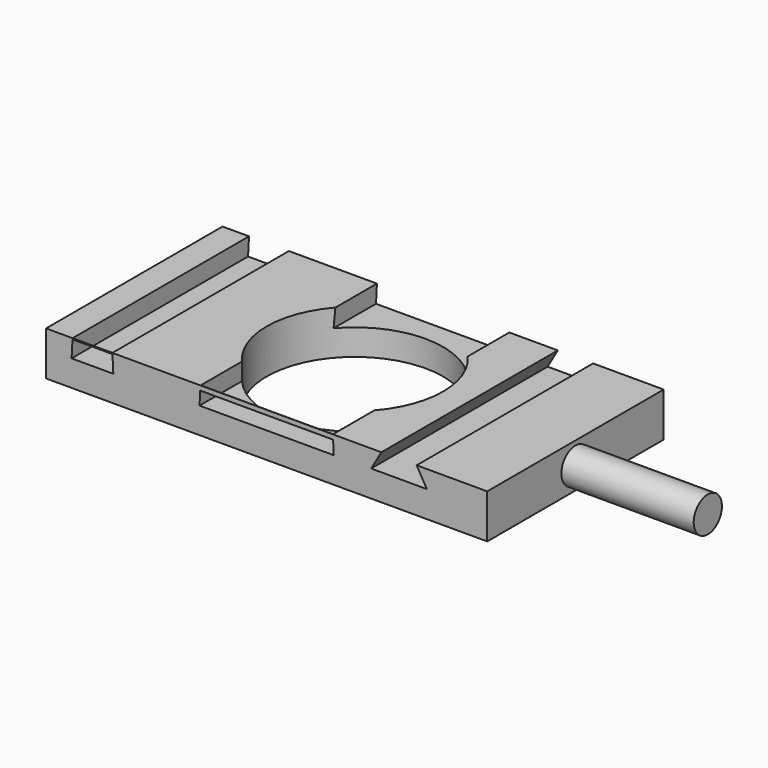
from build123d import *

# Parameters (mm, degrees)
F1_W     = 254
F1_H     = 127
F1_R     = 50.8
F2_DEPTH = 25.4
F5_DEPTH = 127.001
F3_W     = 22.938862443
F3_H     = 126.9670481086
F3_W_2   = 76.2
F3_H_2   = 126.8606091142
F7_DEPTH = 10.414
F7_TAPER = -3
F6_R     = 10.16
F8_DEPTH = 76.2


with BuildPart() as f2:
    # F1 (on face) → F2 (new body)
    with BuildSketch(Plane.XY):
        Rectangle(F1_W, F1_H)
        Circle(F1_R, mode=Mode.SUBTRACT)
    extrude(amount=-F2_DEPTH)

    # F4 (on face) → F5 (cut, through all)
    with BuildSketch(Plane.XZ.offset(63.5)):
        Polygon((86.36, 0), (66.04, 0), (60.174121265, -10.16), (92.225878735, -10.16), align=None)
    extrude(amount=-F5_DEPTH, mode=Mode.SUBTRACT)

    # F3 (on face) → F7 (cut)
    with BuildSketch(Plane.XY):
        with Locations((-100.2905687785, 0.0164759457)):
            Rectangle(F3_W, F3_H)
        with Locations((0, 0.0696954429)):
            Rectangle(F3_W_2, F3_H_2)
    extrude(amount=-F7_DEPTH, taper=F7_TAPER, mode=Mode.SUBTRACT)

    # F6 (on face) → F8 (join)
    with BuildSketch(Plane.YZ.offset(127)):
        with Locations((0, -12.7)):
            Circle(F6_R)
    extrude(amount=F8_DEPTH)


solid = f2.part
